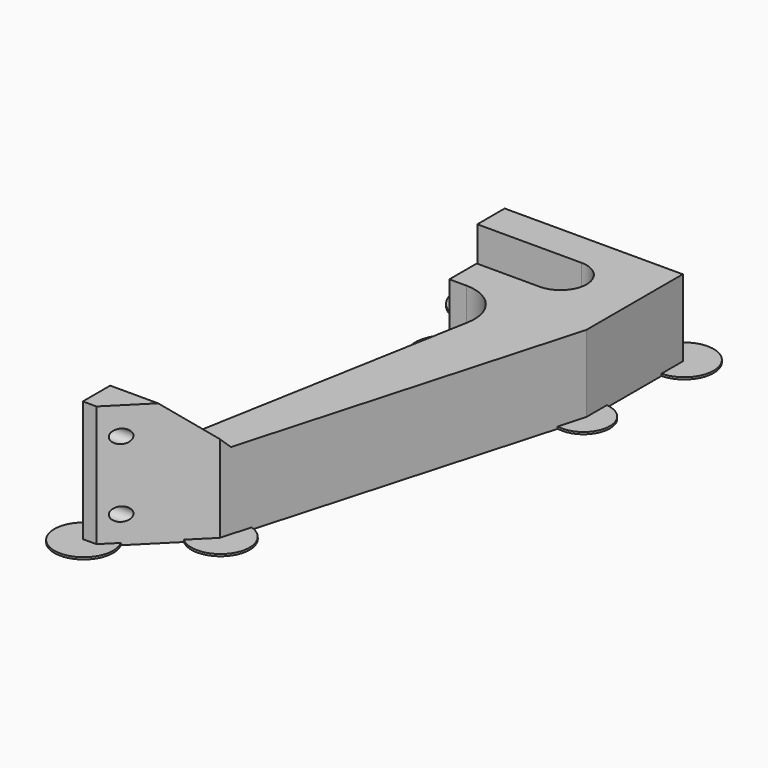
from build123d import *

# Parameters (mm, degrees)
SKETCH003_R      = 5
SKETCH003_R_2    = 4.293562
SKETCH003_R_3    = 4.292919
SKETCH003_R_4    = 4.247298
SKETCH003_R_5    = 4.621938
SKETCH003_R_6    = 3.839764
EXTRUDE003_DEPTH = 0.3
SKETCH001_R      = 1
EXTRUDE001_DEPTH = 15
EXTRUDE_DEPTH    = 20
EXTRUDE002_DEPTH = 50


with BuildPart() as obj1:
    # Sketch003 → Extrude003 (new body)
    with BuildSketch(Plane.XY):
        with Locations((2.929235, 2.379341)):
            Circle(SKETCH003_R)
        with Locations((28.897633, 5.404075)):
            Circle(SKETCH003_R_2)
        with Locations((3.195543, -72.073357)):
            Circle(SKETCH003_R_3)
        with Locations((14.909943, -61.750763)):
            Circle(SKETCH003_R_4)
        with Locations((6.860642, -10.369777)):
            Circle(SKETCH003_R_5)
        with Locations((28.665668, -12.689456)):
            Circle(SKETCH003_R_6)
    extrude(amount=EXTRUDE003_DEPTH)


with BuildPart() as extrude001:
    # Sketch001 → Extrude001 (new body, symmetric)
    with BuildSketch(Plane.YZ):
        with Locations((-70, 4)):
            Circle(SKETCH001_R)
    extrude(amount=EXTRUDE001_DEPTH, both=True)


with BuildPart() as clone:
    # Clone base: copy of Extrude001
    add(extrude001.part)


with BuildPart() as clone_1:
    # Clone placement: moved
    add(clone.part.moved(Location((0, 0, 10))))


with BuildPart() as profil:
    # DWire → Extrude (new body)
    with BuildSketch(Plane.XY):
        with BuildLine():
            Line((10, -60), (17.29084, -19.529001))
            ThreePointArc((17.29084, -19.529001), (16.014131, -14.71074), (11.498558, -12.6))
            Line((11.498558, -12.6), (9, -12.6))
            Line((9, -12.6), (9, -7.6))
            Line((9, -7.6), (18.2, -7.6))
            ThreePointArc((18.2, -7.6), (22, -3.8), (18.2, 0))
            Line((18.2, 0), (3, 0))
            Line((3, 0), (3, 5))
            Line((3, 5), (29, 5))
            Line((29, 5), (29, -12.6))
            Line((29, -12.6), (15, -62))
            Line((15, -62), (5, -72))
            Line((5, -72), (3, -72))
            Line((3, -72), (3, -67))
            Line((3, -67), (10, -60))
        make_face()
    extrude(amount=EXTRUDE_DEPTH)


with BuildPart() as fusion:
    # Sketch002 → Extrude002 (new body, symmetric)
    with BuildSketch(Plane.YZ):
        Polygon((-83.421997, 18), (-67, 18), (-60.5, 11.5), (43.07156, 11.5), (44.937477, -15.860289), (-84.74369, -15.860289), align=None)
    extrude(amount=EXTRUDE002_DEPTH, both=True)

    # Common: intersect profil
    add(profil.part, mode=Mode.INTERSECT)

    # Cut: cut Clone
    add(clone_1.part, mode=Mode.SUBTRACT)

    # Cut001: cut Extrude001
    add(extrude001.part, mode=Mode.SUBTRACT)

    # Fusion: union obj1
    add(obj1.part)


solid = fusion.part
